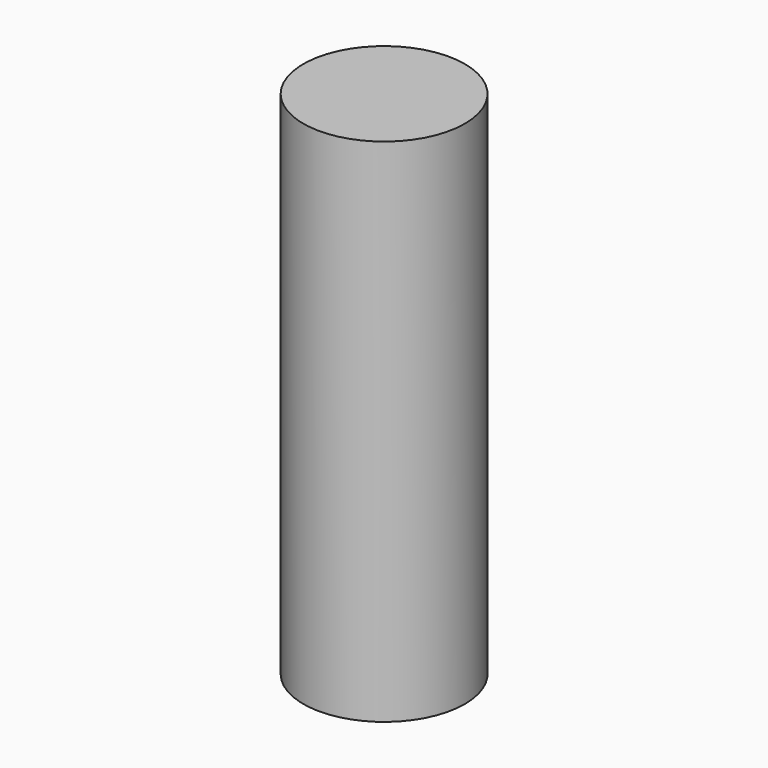
from build123d import *

# Parameters (mm, degrees)
F0_R      = 24.0977800955
F1_DEPTH  = 152.4
F1_FACE_R = 24.0977800955


with BuildPart() as f1:
    # F0 (on Top) → F1 (new body)
    with BuildSketch(Plane.XY):
        Circle(F0_R)
    extrude(amount=F1_DEPTH)

    # F1_face (on face) → F2 section 0
    with BuildSketch(Plane.XY.offset(152.4), mode=Mode.PRIVATE) as f2_s0:
        Circle(F1_FACE_R)
    loft([Vertex(0, 0, 0), f2_s0.sketch])


solid = f1.part
